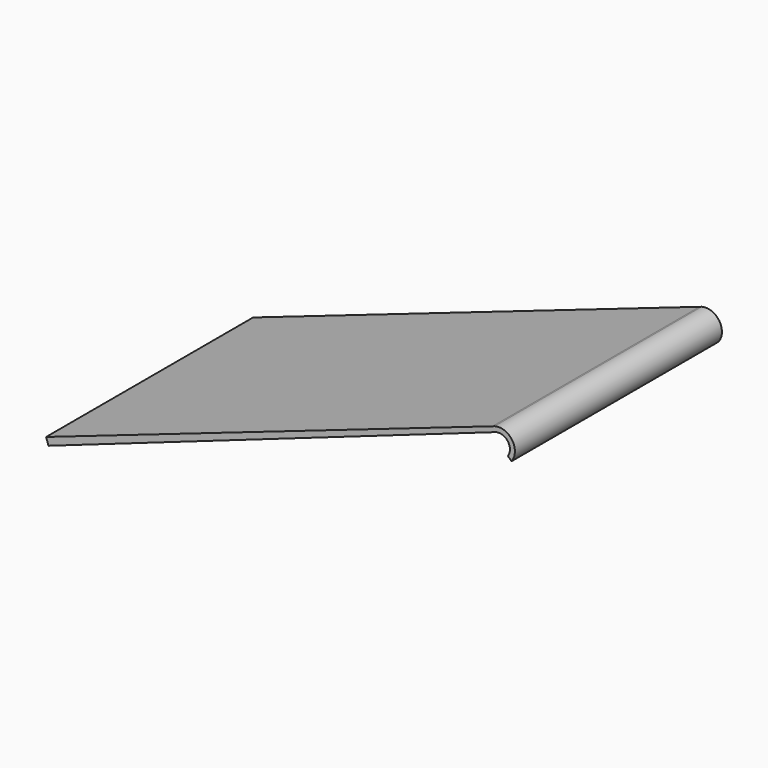
from build123d import *

# Parameters (mm, degrees)
F1_DEPTH = 70


with BuildPart() as f1:
    # F0 (on Front) → F1 (new body)
    with BuildSketch(Plane.XZ):
        with BuildLine():
            ThreePointArc((38.684679, 14.981631), (42.07904, 13.954538), (42.122397, 10.408452))
            Line((42.122397, 10.408452), (43.112431, 9.482922))
            ThreePointArc((43.112431, 9.482922), (43.308922, 14.546989), (38.574926, 16.356039))
            Line((38.574926, 16.356039), (37.950457, 16.139805))
            Line((37.950457, 16.139805), (-82.800867, -25.672631))
            Line((-82.800867, -25.672631), (-82.136644, -27.559111))
            Line((-82.136644, -27.559111), (38.684679, 14.981631))
        make_face()
    extrude(amount=F1_DEPTH)


solid = f1.part
